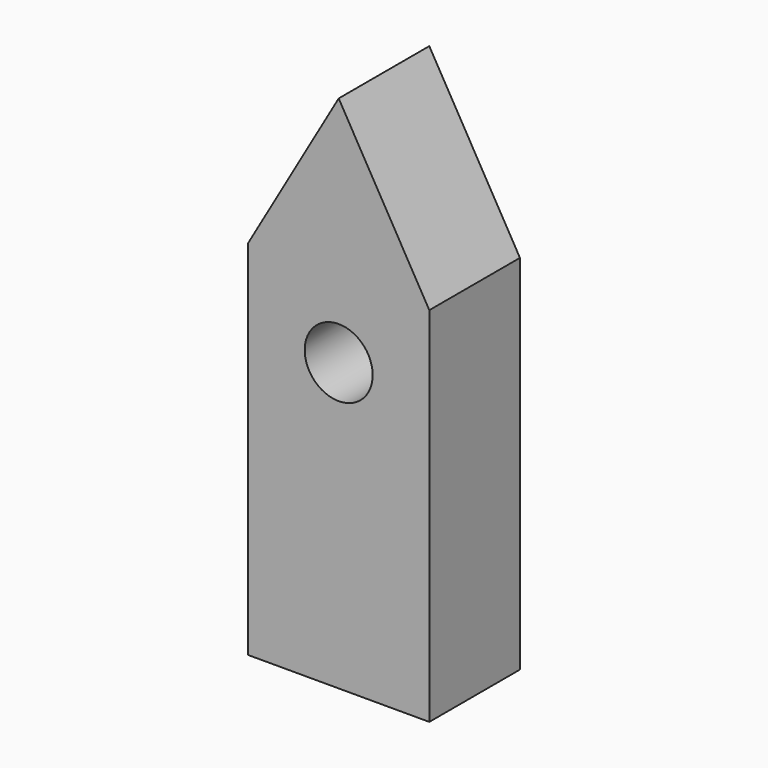
from build123d import *

# Parameters (mm, degrees)
F0_W     = 40
F0_H     = 80
F0_R     = 7.5
F1_DEPTH = 25


with BuildPart() as f1:
    # F0 (on Front) → F1 (new body)
    with BuildSketch(Plane.XZ):
        Rectangle(F0_W, F0_H)
        with Locations((0, 23.313124)):
            Circle(F0_R, mode=Mode.SUBTRACT)
        Polygon((-20, 40), (20, 40), (0, 74.641016), align=None)
    extrude(amount=F1_DEPTH)


solid = f1.part
